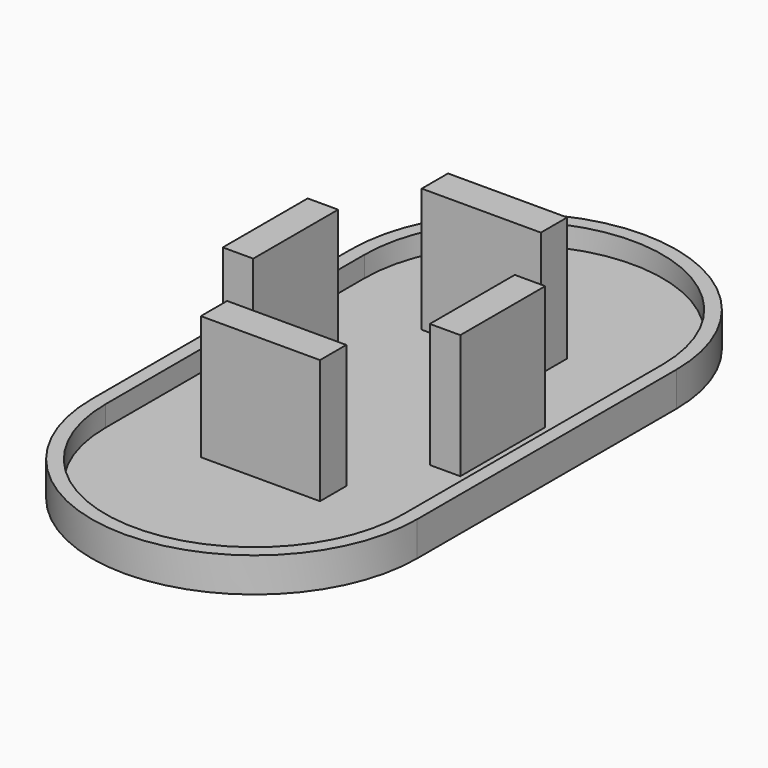
from build123d import *

# Parameters (mm, degrees)
F1_W     = 21.917364
F1_H     = 6.045704
F1_W_2   = 5.601654
F1_H_2   = 19.527208
F2_DEPTH = 25.4
F3_DEPTH = 6.35
F4_T     = -2.54


with BuildPart() as f2:
    # F1 (on face) → F2 (new body)
    with BuildSketch(Plane.XY):
        with Locations((0, 25.4)):
            Rectangle(F1_W, F1_H)
        with Locations((0, -25.4)):
            Rectangle(F1_W, F1_H)
        with Locations((-19.05, 0)):
            Rectangle(F1_W_2, F1_H_2)
        with Locations((19.05, 0)):
            Rectangle(F1_W_2, F1_H_2)
    extrude(amount=F2_DEPTH)


with BuildPart() as f3:
    # F0 (on Top) → F3 (new body)
    with BuildSketch(Plane.XY):
        with BuildLine():
            ThreePointArc((29.934777, 29.796828), (0, 59.731605), (-29.934777, 29.796828))
            Line((-29.934777, 29.796828), (-29.934777, -29.796828))
            ThreePointArc((-29.934777, -29.796828), (0, -59.731605), (29.934777, -29.796828))
            Line((29.934777, -29.796828), (29.934777, 29.796828))
        make_face()
    extrude(amount=F3_DEPTH)

    # F4
    f4_openings = [f3.faces().sort_by_distance(p)[0] for p in [
        (0, 0, 6.35),
    ]]
    offset(amount=F4_T, openings=f4_openings)


solid = Compound([f2.part, f3.part])
